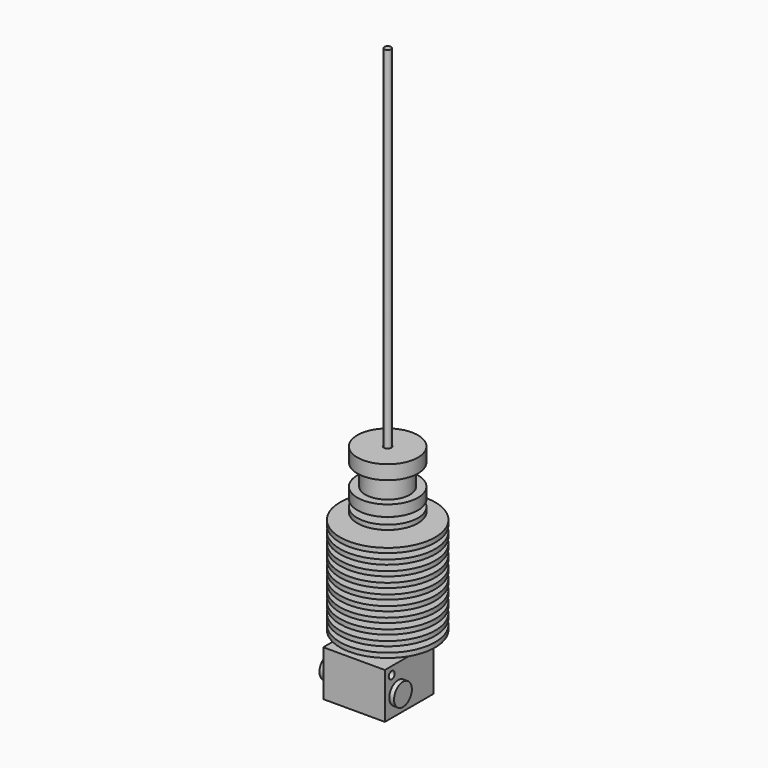
from build123d import *

# Parameters (mm, degrees)
F3_DEPTH   = 3.09
F7_DEPTH   = 12.02
F8_R       = 0.98
F9_DEPTH   = 20.601
F8_R_2     = 2.925
F10_DEPTH  = 2.17
F10_FACE_R = 2.925
F11_DEPTH  = 19.62
F12_R      = 1.385
F13_DEPTH  = 1.12
F14_R      = 0.875
F15_DEPTH  = 100


with BuildPart() as f1:
    # F0 (on Front) → F1 (revolve)
    with BuildSketch(Plane.XZ):
        Polygon((0, -61.7), (0, -7.79), (-1, -7.79), (-1, 0), (-7.97, 0), (-7.97, -3.7), (-5.85, -3.7), (-5.85, -9.3), (-7.97, -9.3), (-7.97, -12.21), (-4.66, -12.21), (-4.66, -13.995), (-7.97, -13.995), (-7.97, -15.215), (-4.66, -15.215), (-4.66, -17), (-12.5, -17), (-12.5, -18.22), (-4.66, -18.22), (-4.66, -19.697778), (-12.5, -19.697778), (-12.5, -20.917778), (-4.66, -20.917778), (-4.66, -22.395556), (-12.5, -22.395556), (-12.5, -23.615556), (-4.66, -23.615556), (-4.66, -25.093333), (-12.5, -25.093333), (-12.5, -26.313333), (-4.66, -26.313333), (-4.66, -27.791111), (-12.5, -27.791111), (-12.5, -29.011111), (-4.66, -29.011111), (-4.66, -30.488889), (-12.5, -30.488889), (-12.5, -31.708889), (-6.52, -31.708889), (-6.52, -33.186667), (-12.5, -33.186667), (-12.5, -34.406667), (-6.52, -34.406667), (-6.52, -35.884444), (-12.5, -35.884444), (-12.5, -37.104444), (-6.52, -37.104444), (-6.52, -38.582222), (-12.5, -38.582222), (-12.5, -39.802222), (-6.52, -39.802222), (-6.52, -41.28), (-12.5, -41.28), (-12.5, -42.5), (-2.94, -42.5), (-2.94, -59.77), (-2.305, -59.77), (-0.3475, -61.7), align=None)
    revolve(axis=Axis((0, 0, -30.85), (0, 0, -1)))

    # F2 (on face) → F3 (join)
    with BuildSketch(Plane(origin=(0, 0, -59.77), x_dir=(1, 0, 0), z_dir=(0, 0, -1))):
        Polygon((-4.085, 2.358476), (-4.085, -2.358476), (0, -4.716952), (4.085, -2.358476), (4.085, 2.358476), (0, 4.716952), align=None)
    extrude(amount=-F3_DEPTH)

    # F4 (on Front) → F5 (revolve, cut)
    with BuildSketch(Plane.XZ):
        Polygon((-4.085, -60.77), (-4.085, -59.77), (-5.63, -58.225), (-4.085, -56.68), (-4.085, -55.68), (-7.085, -55.68), (-7.085, -60.77), align=None)
    revolve(axis=Axis((0, 0, -66.360682), (0, 0, -1)), mode=Mode.SUBTRACT)

    # F6 (on face) → F7 (join)
    with BuildSketch(Plane.XY.offset(-56.68)):
        Polygon((-8.1, -11.04), (0, -11.04), (8.1, -11.04), (8.1, 4.98), (0, 4.98), (-8.1, 4.98), align=None)
    extrude(amount=F7_DEPTH)

    # F8 (on face) → F9 (cut, through all)
    with BuildSketch(Plane(origin=(-8.1, 0, 0), x_dir=(0, -1, 0), z_dir=(-1, 0, 0))):
        with Locations((8.79, -46.75)):
            Circle(F8_R)
    extrude(amount=-F9_DEPTH, mode=Mode.SUBTRACT)

    # F8 (on face) → F10 (join)
    with BuildSketch(Plane(origin=(-8.1, 0, 0), x_dir=(0, -1, 0), z_dir=(-1, 0, 0))):
        with Locations((6.655, -51.685)):
            Circle(F8_R_2)
    extrude(amount=F10_DEPTH)

    # F10_face (on face) → F11 (join)
    with BuildSketch(Plane(origin=(-10.27, -6.655, -51.685), x_dir=(0, -1, 0), z_dir=(-1, 0, 0))):
        Circle(F10_FACE_R)
    extrude(amount=-F11_DEPTH)

    # F12 (on face) → F13 (join)
    with BuildSketch(Plane(origin=(0, 0, -56.68), x_dir=(1, 0, 0), z_dir=(0, 0, -1))):
        with Locations((0, 7.085)):
            Circle(F12_R)
    extrude(amount=F13_DEPTH)


with BuildPart() as f15:
    # F14 (on face) → F15 (new body)
    with BuildSketch(Plane.XY.offset(-7.79)):
        Circle(F14_R)
    extrude(amount=F15_DEPTH)


solid = Compound([f1.part, f15.part])
